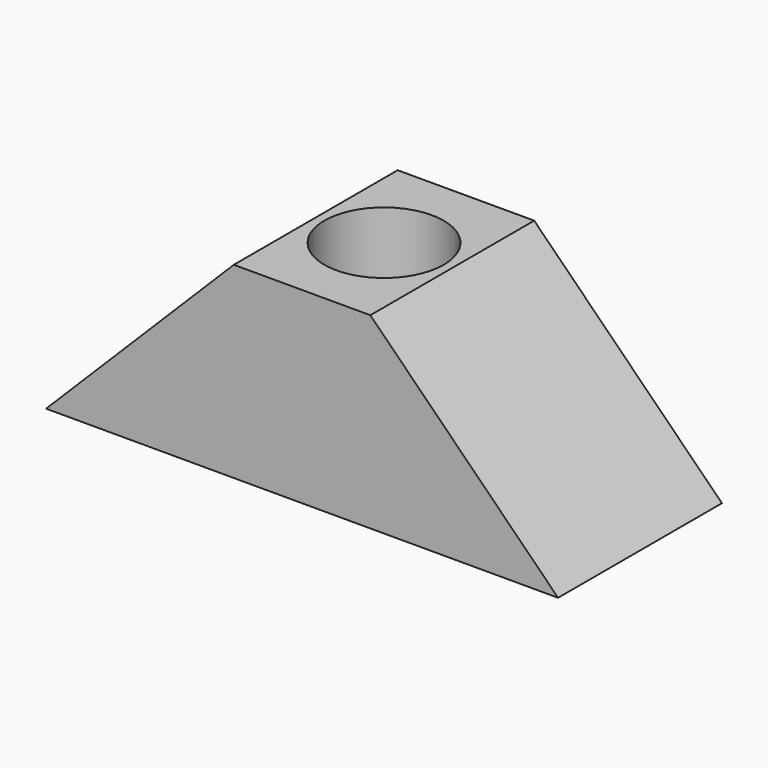
from build123d import *

# Parameters (mm, degrees)
F1_DEPTH = 12
F2_R     = 3.5
F3_DEPTH = 11.001


with BuildPart() as f1:
    # F0 (on Front) → F1 (new body)
    with BuildSketch(Plane.XZ):
        Polygon((11, 11), (0, 0), (30, 0), (19, 11), align=None)
    extrude(amount=F1_DEPTH)

    # F2 (on face) → F3 (cut, through all)
    with BuildSketch(Plane(origin=(0, 0, 0), x_dir=(1, 0, 0), z_dir=(0, 0, -1))):
        with Locations((15, 6)):
            Circle(F2_R)
    extrude(amount=-F3_DEPTH, mode=Mode.SUBTRACT)


solid = f1.part
